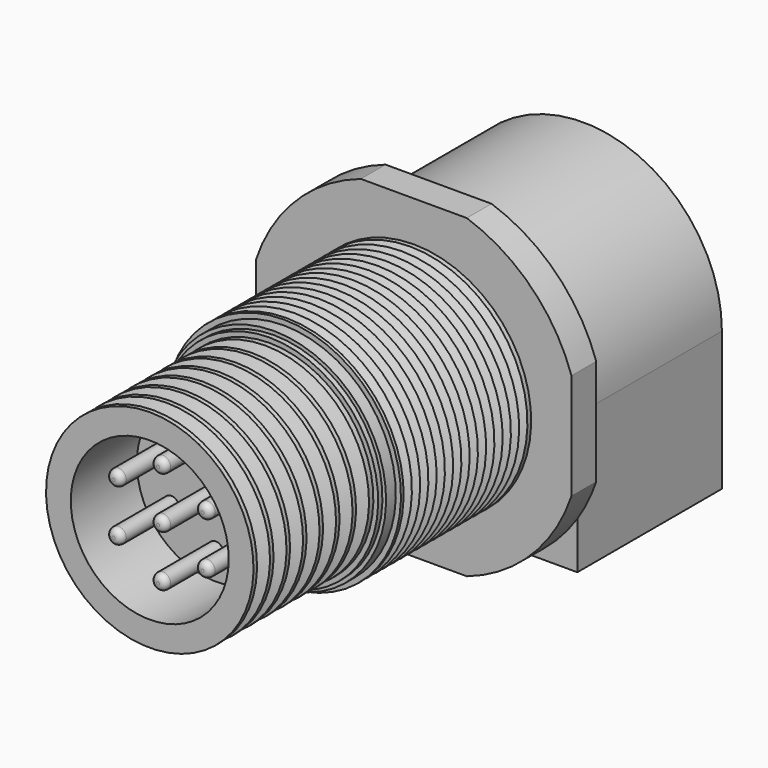
from build123d import *

# Parameters (mm, degrees)
F1_DEPTH = 1.5
F3_DEPTH = 8.76
F6_R     = 3.8288597531
F7_DEPTH = 4
F8_R     = 0.375
F9_DEPTH = 3.5
F10_R    = 0.3
F11_R    = 0.3


with BuildPart() as f1:
    # F0 (on Front) → F1 (new body)
    with BuildSketch(Plane.XZ):
        with BuildLine():
            Line((2.5686961673, 7.645), (-2.5686961673, 7.645))
            ThreePointArc((-2.5686961673, 7.645), (-5.7028161903, 5.7028161903), (-7.645, 2.5686961673))
            Line((-7.645, 2.5686961673), (-7.645, -2.5686961673))
            ThreePointArc((-7.645, -2.5686961673), (-5.7028161903, -5.7028161903), (-2.5686961673, -7.645))
            Line((-2.5686961673, -7.645), (2.5686961673, -7.645))
            ThreePointArc((2.5686961673, -7.645), (5.7028161903, -5.7028161903), (7.645, -2.5686961673))
            Line((7.645, -2.5686961673), (7.645, 2.5686961673))
            ThreePointArc((7.645, 2.5686961673), (5.7028161903, 5.7028161903), (2.5686961673, 7.645))
        make_face()
    extrude(amount=F1_DEPTH)

    # F2 (on face) → F3 (join)
    with BuildSketch(Plane(origin=(0, 0, 0), x_dir=(-1, 0, 0), z_dir=(0, 1, 0))):
        with BuildLine():
            Line((6.73, -6.73), (6.73, 0))
            ThreePointArc((6.73, 0), (0, 6.73), (-6.73, 0))
            Line((-6.73, 0), (-6.73, -6.73))
            Line((-6.73, -6.73), (6.73, -6.73))
        make_face()
    extrude(amount=F3_DEPTH)

    # F4 (on Right) → F5 (revolve)
    with BuildSketch(Plane.YZ):
        Polygon((-9.5, 0), (-1.5, 0), (-1.5, 2.5686961673), (-1.5, 5.69), (-1.727645833, 5.69), (-1.977645833, 5.19), (-2.227645833, 5.69), (-2.477645833, 5.19), (-2.727645833, 5.69), (-2.977645833, 5.19), (-3.227645833, 5.69), (-3.477645833, 5.19), (-3.727645833, 5.69), (-3.977645833, 5.19), (-4.227645833, 5.69), (-4.477645833, 5.19), (-4.727645833, 5.69), (-4.977645833, 5.19), (-5.227645833, 5.69), (-5.477645833, 5.19), (-5.727645833, 5.69), (-5.977645833, 5.19), (-6.227645833, 5.69), (-6.477645833, 5.19), (-6.727645833, 5.69), (-6.977645833, 5.19), (-7.227645833, 5.69), (-7.477645833, 5.19), (-7.727645833, 5.69), (-7.977645833, 5.19), (-8.227645833, 5.69), (-8.477645833, 5.19), (-8.727645833, 5.69), (-8.977645833, 5.19), (-9.227645833, 5.69), (-9.3890189205, 5.69), (-9.3890189205, 5.44), (-9.9787839485, 5.44), (-9.9787839485, 5.2621527575), (-10.2360064982, 5.2621527575), (-10.2360064982, 5.0294045359), (-10.5, 5.0294045359), (-10.7380721639, 4.4294045359), (-11.0687961219, 4.4294045359), (-11.2864346265, 5.0294045359), (-11.5, 5.0294045359), (-11.7380721639, 4.4294045359), (-12.0687961219, 4.4294045359), (-12.2864346265, 5.0294045359), (-12.5, 5.0294045359), (-12.7380721639, 4.4294045359), (-13.0687961219, 4.4294045359), (-13.2864346265, 5.0294045359), (-13.5, 5.0294045359), (-13.7380721639, 4.4294045359), (-14.0687961219, 4.4294045359), (-14.2864346265, 5.0294045359), (-14.5, 5.0294045359), (-14.7380721639, 4.4294045359), (-15.0687961219, 4.4294045359), (-15.2864346265, 5.0294045359), (-15.5, 5.0294045359), (-15.7380721639, 4.4294045359), (-16.0687961219, 4.4294045359), (-16.2864346265, 5.0294045359), (-16.5, 5.0294045359), (-16.7380721639, 4.4294045359), (-17.0687961219, 4.4294045359), (-17.2864346265, 5.0294045359), (-17.5, 5.0294045359), (-17.5, 0), (-10.3273820132, 0), align=None)
    revolve(axis=Axis((0, -12.7933816984, 0), (0, -1, 0)))

    # F6 (on face) → F7 (cut)
    with BuildSketch(Plane.XZ.offset(17.5)):
        Circle(F6_R)
    extrude(amount=-F7_DEPTH, mode=Mode.SUBTRACT)

    # F8 (on face) → F9 (join)
    with BuildSketch(Plane.XZ.offset(13.5)):
        Circle(F8_R)
        with Locations((0, 2.4864013782)):
            Circle(F8_R)
        with Locations((-2.1532867575, 1.2432006891)):
            Circle(F8_R)
        with Locations((-2.1532867575, -1.2432006891)):
            Circle(F8_R)
        with Locations((0, -2.4864013782)):
            Circle(F8_R)
        with Locations((2.1532867575, -1.2432006891)):
            Circle(F8_R)
        with Locations((2.1532867575, 1.2432006891)):
            Circle(F8_R)
    extrude(amount=F9_DEPTH)

    # F10
    f10_edges = [f1.edges().sort_by_distance(p)[0] for p in [
        (-2.528287, -17, 1.243201),
    ]]
    fillet(f10_edges, radius=F10_R)

    # F11
    f11_edges = [f1.edges().sort_by_distance(p)[0] for p in [
        (-0.375, -17, 2.486401),
        (1.778287, -17, 1.243201),
        (-0.375, -17, 0),
        (1.778287, -17, -1.243201),
        (-0.375, -17, -2.486401),
        (-2.528287, -17, -1.243201),
    ]]
    fillet(f11_edges, radius=F11_R)


solid = f1.part
